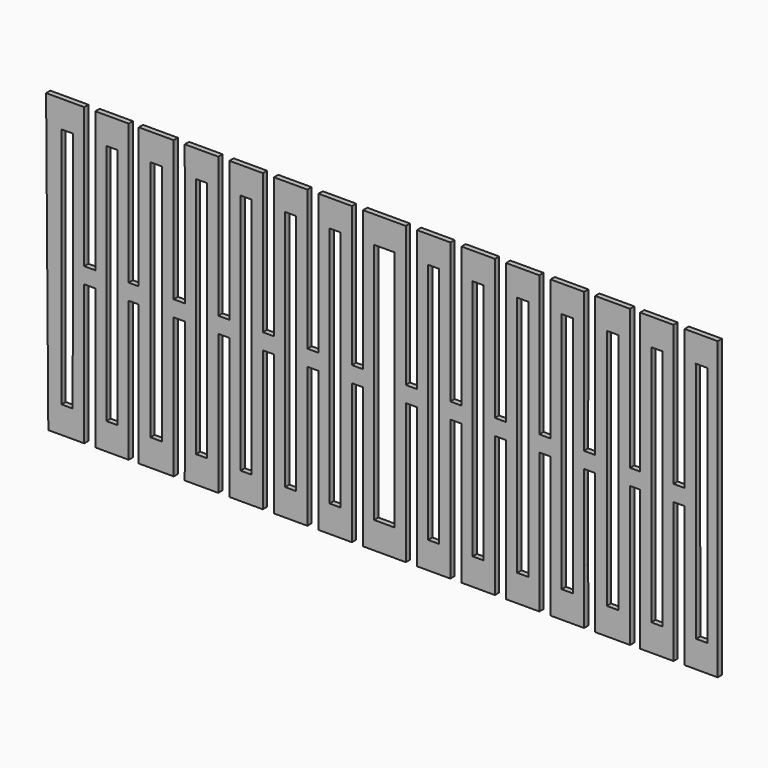
from build123d import *

# Parameters (mm, degrees)
F0_W     = 2.2
F0_H     = 45.730288
F0_W_2   = 2.1
F1_DEPTH = 1


with BuildPart() as f1:
    # F0 (on Front) → F1 (new body)
    with BuildSketch(Plane.XZ):
        Polygon((-60.96, 27.94), (-63.872576, 27.94), (-63.45094, -27.94), (-60.96, -27.94), (-58.86, -27.94), (-58.8518, -27.94), (-56.678003, -27.94), (-56.678003, -1.502051), (-54.578005, -1.502051), (-54.578005, -27.94), (-52.478005, -27.94), (-50.378005, -27.94), (-48.278005, -27.94), (-48.278005, -1.502051), (-46.378005, -1.502051), (-46.378005, -22.870288), (-46.378005, -27.94), (-44.178005, -27.94), (-41.978005, -27.94), (-39.778005, -27.94), (-39.778005, -1.5), (-37.678009, -1.4986), (-37.678009, -17.679542), (-37.695634, -27.94), (-31.367925, -27.94), (-31.367925, -1.4986), (-29.259725, -1.4986), (-29.259725, -27.94), (-22.957845, -27.94), (-22.957845, -1.4986), (-20.857845, -1.4986), (-20.857845, -27.94), (-14.547765, -27.94), (-14.547765, -1.4986), (-12.447765, -1.4986), (-12.447765, -27.94), (-6.137685, -27.94), (-6.137685, -1.4986), (-4.037685, -1.4986), (-4.037685, -27.94), (4.037685, -27.94), (4.037685, -1.4986), (6.137685, -1.4986), (6.137685, -27.94), (12.447765, -27.94), (12.447765, -1.4986), (14.547765, -1.4986), (14.547765, -27.94), (20.857845, -27.94), (20.857845, -1.4986), (22.957845, -1.4986), (22.957845, -27.94), (29.259725, -27.94), (29.259725, -1.4986), (31.367925, -1.4986), (31.367925, -27.94), (37.695634, -27.94), (37.678009, -17.679542), (37.678009, -1.4986), (39.778005, -1.5), (39.778005, -27.94), (46.378005, -27.94), (46.378005, -1.502051), (48.278005, -1.502051), (48.278005, -27.94), (54.578005, -27.94), (54.578005, -1.502051), (56.678003, -1.502051), (56.678003, -27.94), (62.918797, -27.94), (62.918797, 27.94), (56.678003, 27.94), (56.678003, 1.502051), (54.578005, 1.502051), (54.578005, 27.94), (48.278005, 27.94), (48.278005, 1.502051), (46.378005, 1.502051), (46.378005, 27.94), (39.778005, 27.94), (39.778005, 22.86), (39.778005, 1.502051), (37.678009, 1.502051), (37.695634, 27.94), (31.367925, 27.94), (31.367925, 22.86), (31.367925, 1.502051), (29.259725, 1.502051), (29.259725, 27.94), (22.957845, 27.94), (22.957845, 22.86), (22.957845, 1.502051), (20.857845, 1.502051), (20.857845, 27.94), (14.547765, 27.94), (14.547765, 22.86), (14.547765, 1.502051), (12.447765, 1.502051), (12.447765, 27.94), (6.137685, 27.94), (6.137685, 22.86), (6.137685, 1.502051), (4.037685, 1.502051), (4.037685, 27.94), (-4.037685, 27.94), (-4.037685, 1.502051), (-6.137685, 1.502051), (-6.137685, 22.86), (-6.137685, 27.94), (-12.447765, 27.94), (-12.447765, 1.502051), (-14.547765, 1.502051), (-14.547765, 22.86), (-14.547765, 27.94), (-20.857845, 27.94), (-20.857845, 1.502051), (-22.957845, 1.502051), (-22.957845, 22.86), (-22.957845, 27.94), (-29.259725, 27.94), (-29.259725, 1.502051), (-31.367925, 1.502051), (-31.367925, 22.86), (-31.367925, 27.94), (-34.921541, 27.94), (-37.695634, 27.94), (-37.678009, 1.502051), (-39.778005, 1.502051), (-39.778005, 22.86), (-39.778005, 27.94), (-41.978005, 27.94), (-44.178005, 27.94), (-46.378005, 27.94), (-46.378005, 22.86), (-46.378005, 1.502051), (-48.278005, 1.502051), (-48.278005, 27.94), (-50.378005, 27.94), (-52.478005, 27.94), (-54.578005, 27.94), (-54.578005, 1.502051), (-56.678003, 1.502051), (-56.678003, 19.27661), (-56.678003, 27.94), (-58.7698, 27.94), (-58.86, 27.94), align=None)
        Polygon((-52.478005, 22.86), (-50.378005, 22.86), (-50.378005, -22.870288), (-50.378005, -22.873678), (-52.478005, -22.870288), align=None, mode=Mode.SUBTRACT)
        with Locations((-43.078005, -0.005144)):
            Rectangle(F0_W, F0_H, mode=Mode.SUBTRACT)
        Polygon((-35.572965, 17.750787), (-35.572965, 22.86), (-33.472965, 22.86), (-33.472965, -22.870288), (-35.572965, -22.870288), align=None, mode=Mode.SUBTRACT)
        Polygon((-27.162885, -22.870288), (-27.162885, 17.750787), (-27.162885, 22.86), (-25.062885, 22.86), (-25.062885, -22.870288), align=None, mode=Mode.SUBTRACT)
        Polygon((-18.752805, -22.870288), (-18.752805, 17.750787), (-18.752805, 22.86), (-16.652805, 22.86), (-16.652805, -22.870288), align=None, mode=Mode.SUBTRACT)
        Polygon((-10.342725, -22.870288), (-10.342725, 17.750787), (-10.342725, 22.86), (-8.242725, 22.86), (-8.242725, -22.870288), align=None, mode=Mode.SUBTRACT)
        Polygon((-1.932645, -22.870288), (-1.932645, 17.750787), (-1.932645, 22.86), (0, 22.86), (1.932645, 22.86), (1.932645, 17.750787), (1.932645, -22.870288), (0, -22.870288), align=None, mode=Mode.SUBTRACT)
        Polygon((8.242725, -22.870288), (8.242725, 22.86), (10.342725, 22.86), (10.342725, 17.750787), (10.342725, -22.870288), align=None, mode=Mode.SUBTRACT)
        Polygon((16.652805, 22.86), (18.752805, 22.86), (18.752805, 17.750787), (18.752805, -22.870288), (16.652805, -22.870288), align=None, mode=Mode.SUBTRACT)
        Polygon((25.062885, 22.86), (27.162885, 22.86), (27.162885, 17.750787), (27.162885, -22.870288), (25.062885, -22.870288), align=None, mode=Mode.SUBTRACT)
        Polygon((35.572965, -22.870288), (33.472965, -22.870288), (33.472965, 22.86), (35.572965, 22.86), (35.572965, 17.750787), align=None, mode=Mode.SUBTRACT)
        with Locations((43.078005, -0.005144)):
            Rectangle(F0_W, F0_H, mode=Mode.SUBTRACT)
        with Locations((51.428005, -0.005144)):
            Rectangle(F0_W_2, F0_H, mode=Mode.SUBTRACT)
        Polygon((-60.96, -22.86), (-60.96, 22.86), (-58.778, 22.86), (-58.8518, -22.86), align=None, mode=Mode.SUBTRACT)
        Polygon((58.778, 22.86), (60.96, 22.86), (60.96, -22.86), (58.8518, -22.86), align=None, mode=Mode.SUBTRACT)
    extrude(amount=F1_DEPTH)


solid = f1.part
